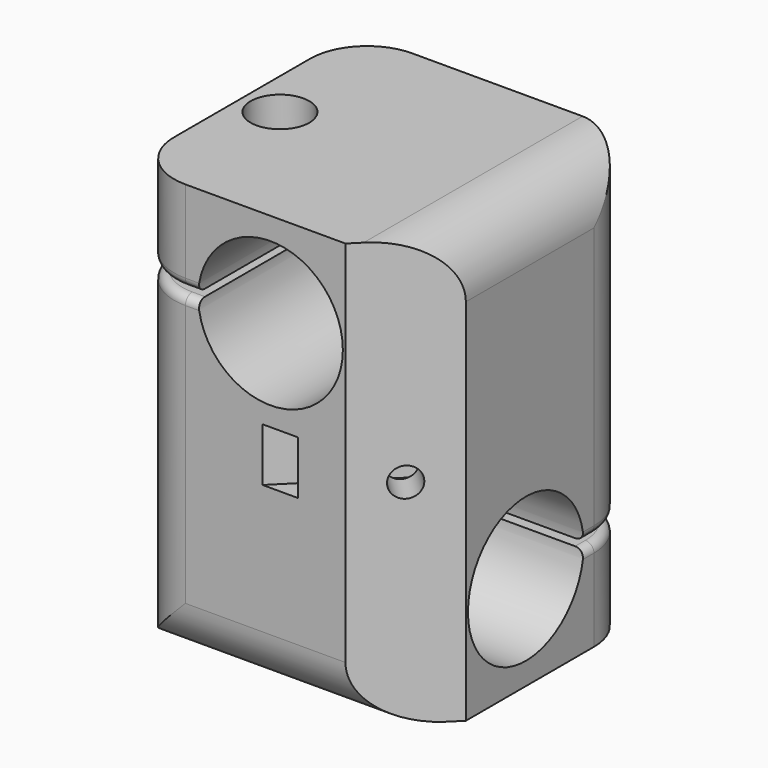
from build123d import *

# Parameters (mm, degrees)
EXTRUDE003_DEPTH                          = 2.658721
EXTRUDE003_ONTO_SKETCH010_ROLL_ANGLE      = 90
EXTRUDE003_ONTO_SKETCH010_PLACEMENT_ANGLE = 45
EXTRUDE002_DEPTH                          = 2.65
EXTRUDE001_DEPTH                          = 2.65
EXTRUDE_DEPTH                             = 45
POCKET_DEPTH                              = 30.001
POCKET001_DEPTH                           = 30.001019
SKETCH003_R                               = 1.55
POCKET002_DEPTH                           = 16
SKETCH005_R                               = 3.1
POCKET003_DEPTH                           = 5
SKETCH006_R                               = 1.55
POCKET004_DEPTH                           = 16
SKETCH008_R                               = 3.1
POCKET005_DEPTH                           = 5
SKETCH009_R                               = 1.55
POCKET006_DEPTH                           = 10
FILLET_R                                  = 0.9


with BuildPart() as extrude003:
    # Sketch010 as drawn → Extrude003 (new)
    with BuildSketch(Plane.XY):
        Polygon((3.262029, 22.5), (1.631015, 25.325), (-13.368985, 25.325), (-13.368985, 19.675), (1.631015, 19.675), align=None)
    extrude(amount=-EXTRUDE003_DEPTH)


with BuildPart() as extrude003_1:
    # Extrude003 onto Sketch010 roll: moved
    add(extrude003.part.rotate(Axis((0, 0, 0), (1, 0, 0)), EXTRUDE003_ONTO_SKETCH010_ROLL_ANGLE))


with BuildPart() as extrude003_2:
    # Extrude003 onto Sketch010 placement: moved
    add(extrude003_1.part.moved(Location((11.464466, -11.464466, 0))).rotate(Axis((11.464466, -11.464466, 0), (0, 0, 1)), EXTRUDE003_ONTO_SKETCH010_PLACEMENT_ANGLE))


with BuildPart() as extrude003_3:
    # Extrude003 placement: moved
    add(extrude003_2.part.moved(Location((-2.5, 2.5, 0))))


with BuildPart() as extrude002:
    # Sketch007 → Extrude002 (new body)
    with BuildSketch(Plane(origin=(0, 0, 0), x_dir=(1, 0, 0), z_dir=(0, 0, -1))):
        Polygon((0, -7.737971), (-2.825, -9.368985), (-2.825, -15), (2.825, -15), (2.825, -9.368985), align=None)
    extrude(amount=-EXTRUDE002_DEPTH)


with BuildPart() as extrude002_1:
    # Extrude002 placement: moved
    add(extrude002.part.moved(Location((0, 0, 14))))


with BuildPart() as extrude001:
    # Sketch004 → Extrude001 (new body)
    with BuildSketch(Plane.XY.offset(45)):
        Polygon((-7.737971, 0), (-9.368985, 2.825), (-15, 2.825), (-15, -2.825), (-9.368985, -2.825), align=None)
    extrude(amount=-EXTRUDE001_DEPTH)


with BuildPart() as extrude001_1:
    # Extrude001 placement: moved
    add(extrude001.part.moved(Location((0, 0, -14))))


with BuildPart() as fillet_body:
    # Sketch → Extrude (new body)
    with BuildSketch(Plane.XY):
        with BuildLine():
            Line((15, -7.928932), (7.928932, -15))
            Line((7.928932, -15), (-9, -15))
            ThreePointArc((-15, -9), (-13.242641, -13.242641), (-9, -15))
            Line((-15, -9), (-15, 9))
            ThreePointArc((-9, 15), (-13.242641, 13.242641), (-15, 9))
            Line((-9, 15), (9, 15))
            ThreePointArc((15, 9), (13.242641, 13.242641), (9, 15))
            Line((15, 9), (15, -7.928932))
        make_face()
    extrude(amount=EXTRUDE_DEPTH)

    # Sketch001 → Pocket (cut, through all)
    with BuildSketch(Plane(origin=(-15, 0, 0), x_dir=(0, -1, 0), z_dir=(-1, 0, 0))):
        with BuildLine():
            Line((9, 0), (15, 0))
            Line((15, 0), (15, 6))
            ThreePointArc((9, 0), (13.242641, 1.757359), (15, 6))
        make_face()
        with BuildLine():
            ThreePointArc((-7.640803, 9.625), (7.65, 10), (-7.640803, 10.375))
            Line((-7.640803, 10.375), (-15.640803, 10.375))
            Line((-15.640803, 10.375), (-15.640803, 9.625))
            Line((-15.640803, 9.625), (-7.640803, 9.625))
        make_face()
    extrude(amount=-POCKET_DEPTH, mode=Mode.SUBTRACT)

    # Sketch002 → Pocket001 (cut, through all)
    with BuildSketch(Plane(origin=(0, 15, 0), x_dir=(-1, 0, 0), z_dir=(0, 1, 0))):
        with BuildLine():
            ThreePointArc((-9, 45), (-13.242641, 43.242641), (-15, 39))
            Line((-15, 39), (-15, 45))
            Line((-15, 45), (-9, 45))
        make_face()
        with BuildLine():
            ThreePointArc((7.640803, 35.375), (-7.65, 35), (7.640803, 34.625))
            Line((15.640803, 34.625), (7.640803, 34.625))
            Line((15.640803, 35.375), (15.640803, 34.625))
            Line((7.640803, 35.375), (15.640803, 35.375))
        make_face()
    extrude(amount=-POCKET001_DEPTH, mode=Mode.SUBTRACT)

    # Sketch003 → Pocket002 (cut)
    with BuildSketch(Plane.XY.offset(45)):
        with Locations((-11, 0)):
            Circle(SKETCH003_R)
    extrude(amount=-POCKET002_DEPTH, mode=Mode.SUBTRACT)

    # Cut: cut Extrude001
    add(extrude001_1.part, mode=Mode.SUBTRACT)

    # Sketch005 → Pocket003 (cut)
    with BuildSketch(Plane.XY.offset(45)):
        with Locations((-11, 0)):
            Circle(SKETCH005_R)
    extrude(amount=-POCKET003_DEPTH, mode=Mode.SUBTRACT)

    # Sketch006 → Pocket004 (cut)
    with BuildSketch(Plane(origin=(0, 0, 0), x_dir=(1, 0, 0), z_dir=(0, 0, -1))):
        with Locations((0, -11)):
            Circle(SKETCH006_R)
    extrude(amount=-POCKET004_DEPTH, mode=Mode.SUBTRACT)

    # Cut001: cut Extrude002
    add(extrude002_1.part, mode=Mode.SUBTRACT)

    # Sketch008 → Pocket005 (cut)
    with BuildSketch(Plane(origin=(0, 0, 0), x_dir=(1, 0, 0), z_dir=(0, 0, -1))):
        with Locations((0, -11)):
            Circle(SKETCH008_R)
    extrude(amount=-POCKET005_DEPTH, mode=Mode.SUBTRACT)

    # Sketch009 → Pocket006 (cut)
    with BuildSketch(Plane(origin=(11.464466, -11.464466, 0), x_dir=(0.707107, 0.707107, 0), z_dir=(0.707107, -0.707107, 0))):
        with Locations((0, 22.5)):
            Circle(SKETCH009_R)
    extrude(amount=-POCKET006_DEPTH, mode=Mode.SUBTRACT)

    # Cut002: cut Extrude003
    add(extrude003_3.part, mode=Mode.SUBTRACT)

    # Fillet
    fillet_edges = [fillet_body.edges().sort_by_distance(p)[0] for p in [
        (-15, 8.320402, 10.375),
        (-15, -7.65, 10),
        (-15, 8.320402, 9.625),
        (-15, 0, 34.625),
        (-15, 0, 28.35),
        (-15, -2.825, 29.675),
        (-15, 0, 31),
        (-15, 2.825, 29.675),
        (-15, 0, 35.375),
    ]]
    fillet(fillet_edges, radius=FILLET_R)


solid = fillet_body.part
